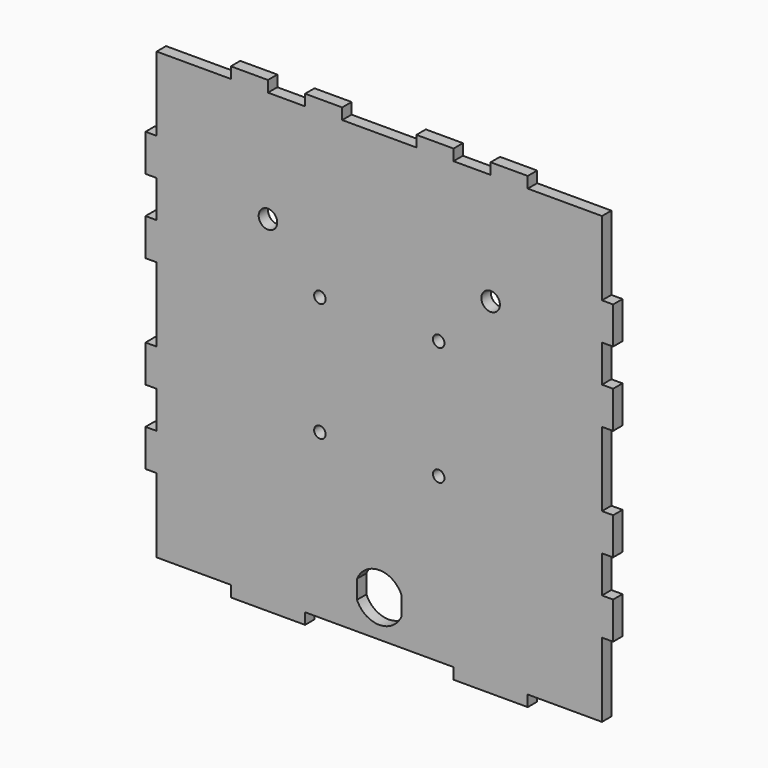
from build123d import *

# Parameters (mm, degrees)
F0_R     = 1.55
F0_R_2   = 2.5
F1_DEPTH = 1.585


with BuildPart() as f1:
    # F0 (on Front) → F1 (new body, symmetric)
    with BuildSketch(Plane.XZ):
        Polygon((10, 60), (0, 60), (-10, 60), (-10, 63), (-20, 63), (-20, 60), (-30, 60), (-30, 63), (-40, 63), (-40, 60), (-60, 60), (-60, 40), (-63, 40), (-63, 30), (-60, 30), (-60, 20), (-63, 20), (-63, 10), (-60, 10), (-60, -10), (-63, -10), (-63, -20), (-60, -20), (-60, -30), (-63, -30), (-63, -40), (-60, -40), (-60, -60), (-40, -60), (-40, -63), (-20, -63), (-20, -60), (0, -60), (20, -60), (20, -63), (40, -63), (40, -60), (60, -60), (60, -40), (63, -40), (63, -30), (60, -30), (60, -20), (63, -20), (63, -10), (60, -10), (60, 10), (63, 10), (63, 20), (60, 20), (60, 30), (63, 30), (63, 40), (60, 40), (60, 60), (40, 60), (40, 63), (30, 63), (30, 60), (20, 60), (20, 63), (10, 63), align=None)
        with Locations((-16, -16)):
            Circle(F0_R, mode=Mode.SUBTRACT)
        with BuildLine():
            Line((-6, -52.5), (-6, -47.5))
            ThreePointArc((-6, -47.5), (0, -43.5), (6, -47.5))
            Line((6, -47.5), (6, -52.5))
            ThreePointArc((6, -52.5), (0, -56.5), (-6, -52.5))
        make_face(mode=Mode.SUBTRACT)
        with Locations((16, -16)):
            Circle(F0_R, mode=Mode.SUBTRACT)
        with Locations((-16, 16)):
            Circle(F0_R, mode=Mode.SUBTRACT)
        with Locations((-30, 30)):
            Circle(F0_R_2, mode=Mode.SUBTRACT)
        with Locations((16, 16)):
            Circle(F0_R, mode=Mode.SUBTRACT)
        with Locations((30, 30)):
            Circle(F0_R_2, mode=Mode.SUBTRACT)
    extrude(amount=F1_DEPTH, both=True)


solid = f1.part
